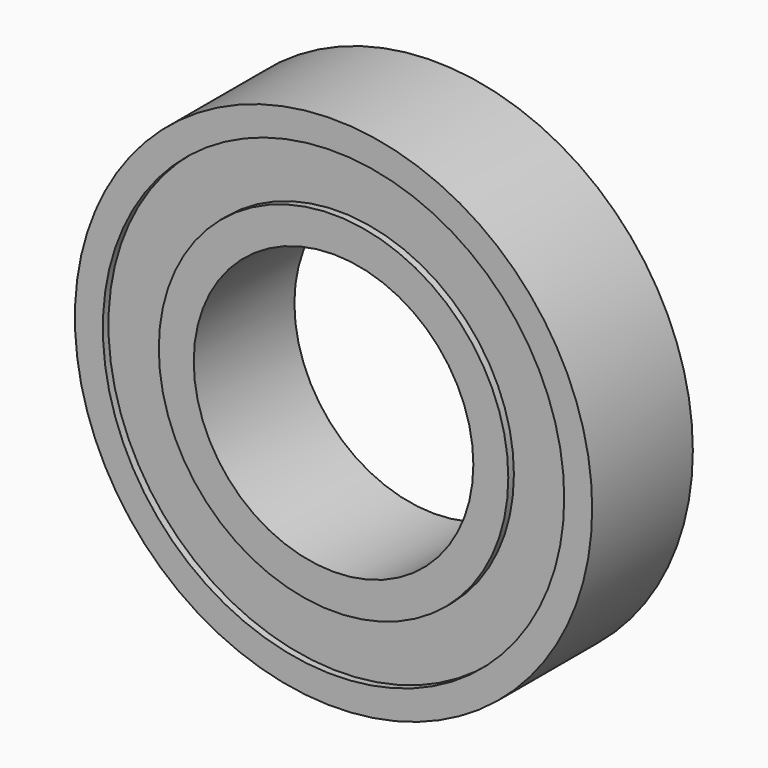
from build123d import *

# Parameters (mm, degrees)
F0_R     = 18.5
F0_R_2   = 10
F1_DEPTH = 9
F2_R     = 16.5
F2_R_2   = 12.5
F3_DEPTH = 0.5
F4_R     = 16.5
F4_R_2   = 12.5
F5_DEPTH = 0.5


with BuildPart() as f1:
    # F0 (on Front) → F1 (new body)
    with BuildSketch(Plane.XZ):
        Circle(F0_R)
        Circle(F0_R_2, mode=Mode.SUBTRACT)
    extrude(amount=F1_DEPTH)

    # F2 (on face) → F3 (cut)
    with BuildSketch(Plane.XZ.offset(9)):
        Circle(F2_R)
        Circle(F2_R_2, mode=Mode.SUBTRACT)
    extrude(amount=-F3_DEPTH, mode=Mode.SUBTRACT)

    # F4 (on Front) → F5 (cut)
    with BuildSketch(Plane.XZ):
        Circle(F4_R)
        Circle(F4_R_2, mode=Mode.SUBTRACT)
    extrude(amount=F5_DEPTH, mode=Mode.SUBTRACT)


solid = f1.part
